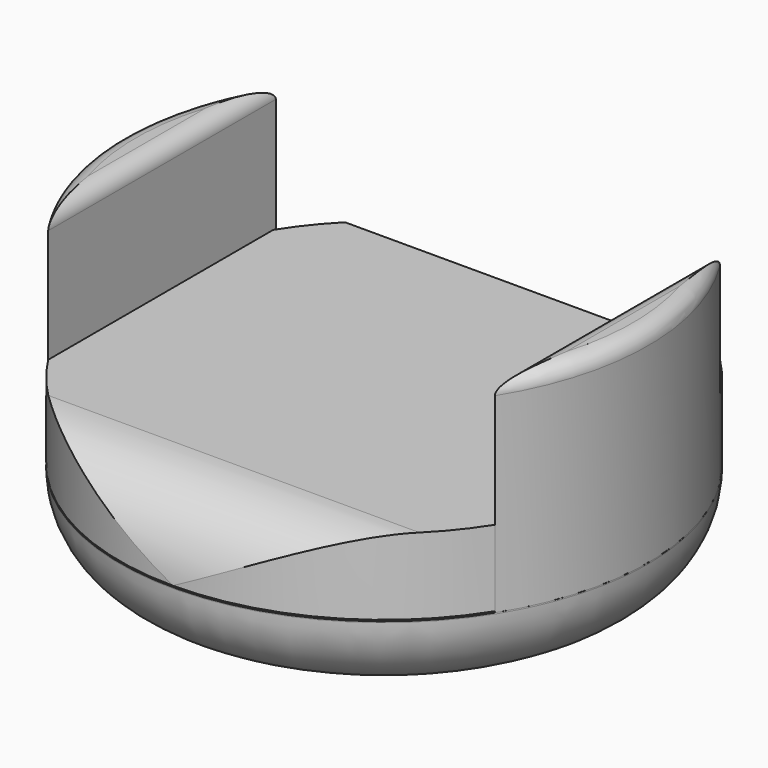
from build123d import *

# Parameters (mm, degrees)
F3_DEPTH  = 220
F4_R      = 500
F4_R_2    = 260
F5_DEPTH  = 500
F7_DEPTH  = 203.2
F8_R      = 15
F9_R      = 15
F10_R     = 15.4821269872
F11_DEPTH = 25
F12_DEPTH = 25
F13_W     = 88.8012498617
F13_H     = 75.206540525
F14_DEPTH = 450


with BuildPart() as f1:
    # F0 (on Front) → F1 (revolve)
    with BuildSketch(Plane.XZ):
        with BuildLine():
            Line((260, 36.9), (260, 38.1))
            Line((260, 38.1), (0, 38.1))
            Line((0, 38.1), (0, -38.1))
            Line((0, -38.1), (185, -38.1))
            ThreePointArc((185, -38.1), (238.033008589, -16.133008589), (260, 36.9))
        make_face()
    revolve(axis=Axis((0, 0, 0), (0, 0, -1)))

    # F10 (on face) → F11 (cut)
    with BuildSketch(Plane(origin=(0, 0, -38.1), x_dir=(1, 0, 0), z_dir=(0, 0, -1))):
        Circle(F10_R)
    extrude(amount=-F11_DEPTH, mode=Mode.SUBTRACT)

    # F10 (on face) → F12 (cut)
    with BuildSketch(Plane(origin=(0, 0, -38.1), x_dir=(1, 0, 0), z_dir=(0, 0, -1))):
        Circle(F10_R)
    extrude(amount=-F12_DEPTH, mode=Mode.SUBTRACT)


with BuildPart() as f3:
    # F2 (on Right) → F3 (new body, symmetric)
    with BuildSketch(Plane.YZ):
        with BuildLine():
            Line((185, 114.3989069283), (0, 114.3989069283))
            Line((0, 114.3989069283), (-185, 114.3989069283))
            ThreePointArc((-185, 114.3989069283), (-238.033008589, 92.4319155173), (-260, 39.3989069283))
            Line((-260, 39.3989069283), (260, 39.3989069283))
            ThreePointArc((260, 39.3989069283), (238.033008589, 92.4319155173), (185, 114.3989069283))
        make_face()
    extrude(amount=F3_DEPTH, both=True)

    # F4 (on Top) → F5 (cut)
    with BuildSketch(Plane.XY):
        Circle(F4_R)
        Circle(F4_R_2, mode=Mode.SUBTRACT)
    extrude(amount=F5_DEPTH, mode=Mode.SUBTRACT)

    # F13 (on Right) → F14 (cut, symmetric)
    with BuildSketch(Plane.YZ):
        with Locations((227.28831321, 76.8649913371)):
            Rectangle(F13_W, F13_H)
    extrude(amount=F14_DEPTH, both=True, mode=Mode.SUBTRACT)


with BuildPart() as f7:
    # F6 (on face) → F7 (new body)
    with BuildSketch(Plane.XY.offset(38.1)):
        with BuildLine():
            Line((220.0015857845, 138.5615468025), (220.0015857845, -138.5615468025))
            ThreePointArc((220.0015857845, -138.5615468025), (260, 0), (220.0015857845, 138.5615468025))
        make_face()
    extrude(amount=F7_DEPTH)

    # F8
    f8_edges = [f7.edges().sort_by_distance(p)[0] for p in [
        (220.001586, 0, 241.3),
        (260, 0, 241.3),
    ]]
    fillet(f8_edges, radius=F8_R)


with BuildPart() as f7b:
    # F6 (on face) → F7, piece 2 (new body)
    with BuildSketch(Plane.XY.offset(38.1)):
        with BuildLine():
            Line((-220.0025767088, -138.5615468025), (-220.0012808488, 141.6782819457))
            ThreePointArc((-220.0012808488, 141.6782819457), (-260.9895784522, 1.558557103), (-220.0025767088, -138.5615468025))
        make_face()
    extrude(amount=F7_DEPTH)

    # F9
    f9_edges = [f7b.edges().sort_by_distance(p)[0] for p in [
        (-260.989578, 1.558557, 241.3),
        (-220.001929, 1.558368, 241.3),
    ]]
    fillet(f9_edges, radius=F9_R)


solid = Compound([f1.part, f3.part, f7.part, f7b.part])
